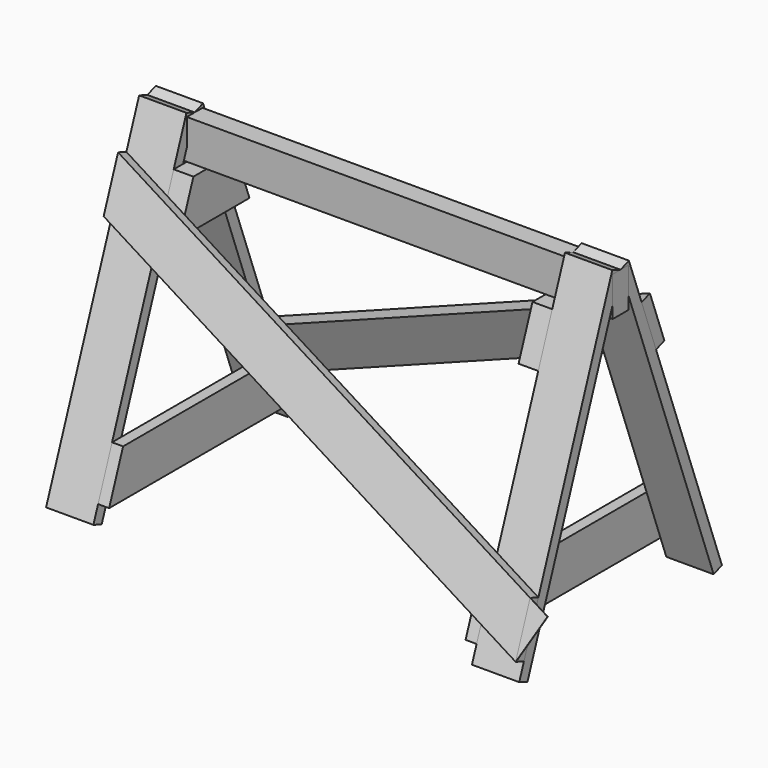
from build123d import *

# Parameters (mm, degrees)
F0_W      = 50
F0_H      = 100
F1_DEPTH  = 600
F3_DEPTH  = 120
F5_DEPTH  = 50
F7_DEPTH  = 28
F10_DEPTH = 28
F11_COUNT = 2
F13_DEPTH = 1


with BuildPart() as f1:
    # F0 (on Right) → F1 (new body, symmetric)
    with BuildSketch(Plane.YZ):
        Rectangle(F0_W, F0_H)
    extrude(amount=F1_DEPTH, both=True)


with BuildPart() as f3:
    # F2 (on face) → F3 (new body)
    with BuildSketch(Plane.YZ.offset(600)):
        Polygon((-25, 50), (0, 50), (-26.2708028822, 59.6873585628), (-321.2708028822, -740.3126414372), (-295, -750), (-25, -17.7966101695), align=None)
    extrude(amount=-F3_DEPTH)


with BuildPart() as f3b:
    # F2 (on face) → F3, piece 2 (new body)
    with BuildSketch(Plane.YZ.offset(600)):
        Polygon((26.2708028822, 59.6873585628), (0, 50), (25, 50), (25, -17.7966101695), (295, -750), (321.2708028822, -740.3126414372), align=None)
    extrude(amount=-F3_DEPTH)


with BuildPart() as f5:
    # F4 (on face) → F5 (new body)
    with BuildSketch(Plane(origin=(480, 0, 0), x_dir=(0, -1, 0), z_dir=(-1, 0, 0))):
        Polygon((66.7180163522, -50), (-66.7180163522, -50), (-110.9680163522, -170), (110.9680163522, -170), align=None)
    extrude(amount=F5_DEPTH)


with BuildPart() as f7:
    # F6 (on face) → F7 (new body)
    with BuildSketch(Plane(origin=(480, 0, 0), x_dir=(0, -1, 0), z_dir=(-1, 0, 0))):
        Polygon((262.1555163522, -580), (-262.1555163522, -580), (-306.4055163522, -700), (306.4055163522, -700), align=None)
    extrude(amount=F7_DEPTH)


with BuildPart() as f8_1:
    # F8: instance of F3
    add(f3.part.mirror(Plane.YZ))


with BuildPart() as f8_2:
    # F8: instance of F3b
    add(f3b.part.mirror(Plane.YZ))


with BuildPart() as f8_3:
    # F8: instance of F5
    add(f5.part.mirror(Plane.YZ))


with BuildPart() as f8_4:
    # F8: instance of F7
    add(f7.part.mirror(Plane.YZ))


with BuildPart() as f10:
    # F9 (on face) → F10 (new body)
    with BuildSketch(Plane(origin=(0, -42.501331406, 15.672365956), x_dir=(1, 0, 0), z_dir=(0, -0.9382429601, 0.3459770915))):
        Polygon((-600, -202.4332561164), (600, -762.779361431), (600, -630.3411585687), (-600, -69.9950532541), align=None)
    extrude(amount=F10_DEPTH)


with BuildPart() as f11_1:
    # F11: instance of F10
    add(f10.part.rotate(Axis((0, 0, 0), (0, 0, -1)), 1 * 360 / F11_COUNT))


with BuildPart() as f13:
    # F12 (on face) → F13 (new body)
    with BuildSketch(Plane(origin=(0, -68.7721342882, 25.3597245188), x_dir=(1, 0, 0), z_dir=(0, -0.9382429601, 0.3459770915))):
        Polygon((650.7720062523, -654.0494052041), (600, -630.3411585687), (600, -762.779361431), align=None)
    extrude(amount=-F13_DEPTH)


solid = Compound([f1.part, f3.part, f3b.part, f5.part, f7.part, f8_1.part, f8_2.part, f8_3.part, f8_4.part, f10.part, f11_1.part, f13.part])
